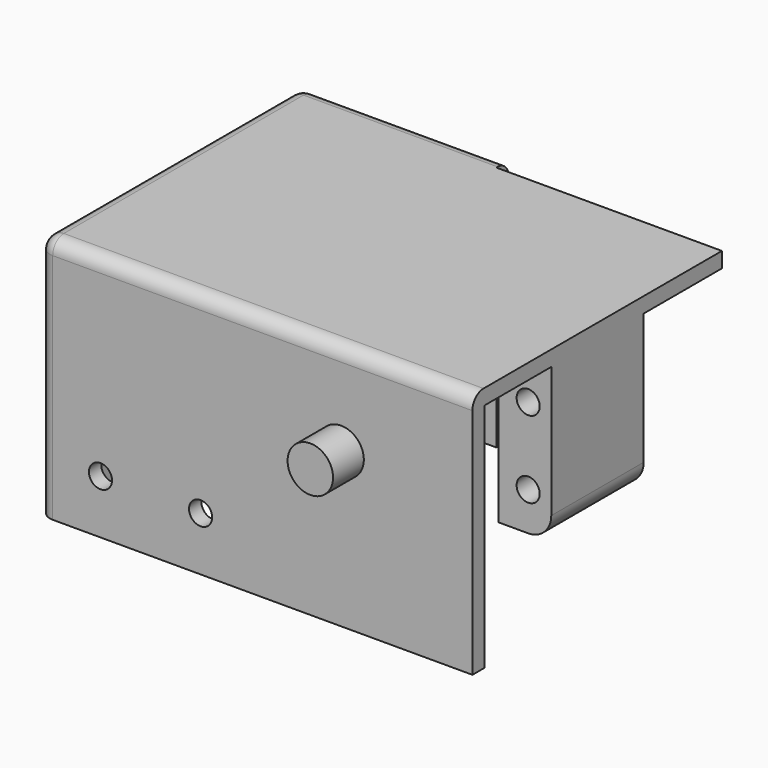
from build123d import *

# Parameters (mm, degrees)
SKETCH_W        = 54.3
SKETCH_H        = 38.5
PAD_DEPTH       = 2
SKETCH003_W     = 6.85
SKETCH003_H     = 15
PAD001_DEPTH    = 20
SKETCH001_W     = 54.3
SKETCH001_H     = 2
PAD003_DEPTH    = 32
SKETCH005_W     = 6.85
SKETCH005_H     = 15
PAD004_DEPTH    = 20
SKETCH002_R     = 2.95
PAD005_DEPTH    = 5
SKETCH007_W     = 25
SKETCH007_H     = 32
PAD006_DEPTH    = 2
SKETCH006_R     = 1.5
POCKET_DEPTH    = 15
SKETCH004_R     = 1.5
POCKET001_DEPTH = 20
SKETCH009_R     = 1.5
SKETCH009_R_2   = 2.95
POCKET002_DEPTH = 2
SKETCH008_R     = 1.5
POCKET003_DEPTH = 3
SKETCH010_W     = 42.5
SKETCH010_H     = 32
PAD007_DEPTH    = 2
FILLET_R        = 1.8
FILLET001_R     = 1.8
FILLET002_R     = 1.8
FILLET003_R     = 3


with BuildPart() as body:
    # Sketch → Pad (new body)
    with BuildSketch(Plane.XY):
        with Locations((27.15, 21.25)):
            Rectangle(SKETCH_W, SKETCH_H)
    extrude(amount=PAD_DEPTH)

    # Sketch003 → Pad001 (join)
    with BuildSketch(Plane.XY.offset(2)):
        with Locations((3.425, 20.3)):
            Rectangle(SKETCH003_W, SKETCH003_H)
    extrude(amount=PAD001_DEPTH)

    # Sketch001 → Pad003 (join)
    with BuildSketch(Plane.XY):
        with Locations((27.15, 1)):
            Rectangle(SKETCH001_W, SKETCH001_H)
    extrude(amount=PAD003_DEPTH)

    # Sketch005 (on Face5 of Pad003) → Pad004 (join)
    with BuildSketch(Plane.XY.offset(2)):
        with Locations((50.875, 20.3)):
            Rectangle(SKETCH005_W, SKETCH005_H)
    extrude(amount=PAD004_DEPTH)

    # Sketch002 (on Face18 of Pad004) → Pad005 (join)
    with BuildSketch(Plane.XZ):
        with Locations((37.25, 12)):
            Circle(SKETCH002_R)
    extrude(amount=PAD005_DEPTH)

    # Sketch007 (on Face1 of Pad005) → Pad006 (join)
    with BuildSketch(Plane(origin=(0, 40.5, 0), x_dir=(-1, 0, 0), z_dir=(0, 1, 0))):
        with Locations((-12.5, 16)):
            Rectangle(SKETCH007_W, SKETCH007_H)
    extrude(amount=PAD006_DEPTH)

    # Sketch006 (on Face14 of Pad006) → Pocket (cut)
    with BuildSketch(Plane.XZ.offset(-12.8)):
        with Locations((51.3, 17)):
            Circle(SKETCH006_R)
        with Locations((51.3, 7)):
            Circle(SKETCH006_R)
    extrude(amount=-POCKET_DEPTH, mode=Mode.SUBTRACT)

    # Sketch004 (on Face16 of Pocket) → Pocket001 (cut)
    with BuildSketch(Plane.XZ.offset(-12.8)):
        with Locations((3, 17)):
            Circle(SKETCH004_R)
        with Locations((3, 7)):
            Circle(SKETCH004_R)
    extrude(amount=-POCKET001_DEPTH, mode=Mode.SUBTRACT)

    # Sketch009 (on Face20 of Pocket001) → Pocket002 (cut)
    with BuildSketch(Plane(origin=(0, 42.5, 0), x_dir=(-1, 0, 0), z_dir=(0, 1, 0))):
        with Locations((-6, 25)):
            Circle(SKETCH009_R)
        with Locations((-19, 25)):
            Circle(SKETCH009_R)
        with Locations((-3, 7)):
            Circle(SKETCH009_R_2)
        with Locations((-3, 17)):
            Circle(SKETCH009_R_2)
    extrude(amount=-POCKET002_DEPTH, mode=Mode.SUBTRACT)

    # Sketch008 → Pocket003 (cut)
    with BuildSketch(Plane.XZ):
        with Locations((19, 25)):
            Circle(SKETCH008_R)
        with Locations((6, 25)):
            Circle(SKETCH008_R)
    extrude(amount=-POCKET003_DEPTH, mode=Mode.SUBTRACT)

    # Sketch010 (on Face8 of Pocket003) → Pad007 (join)
    with BuildSketch(Plane(origin=(0, 0, 0), x_dir=(0, -1, 0), z_dir=(-1, 0, 0))):
        with Locations((-21.25, 16)):
            Rectangle(SKETCH010_W, SKETCH010_H)
    extrude(amount=PAD007_DEPTH)

    # Fillet
    fillet_edges = [body.edges().sort_by_distance(p)[0] for p in [
        (-2, 42.5, 16),
    ]]
    fillet(fillet_edges, radius=FILLET_R)

    # Fillet001
    fillet001_edges = [body.edges().sort_by_distance(p)[0] for p in [
        (-2, 0, 16),
    ]]
    fillet(fillet001_edges, radius=FILLET001_R)

    # Fillet002
    fillet002_edges = [body.edges().sort_by_distance(p)[0] for p in [
        (-2, 21.25, 0),
    ]]
    fillet(fillet002_edges, radius=FILLET002_R)

    # Fillet003
    fillet003_edges = [body.edges().sort_by_distance(p)[0] for p in [
        (54.3, 20.3, 22),
    ]]
    fillet(fillet003_edges, radius=FILLET003_R)


with BuildPart() as part_mirroring:
    # Part__Mirroring: instance of Body
    add(body.part.mirror(Plane(origin=(0, 0, 0), x_dir=(0, 1, 0), z_dir=(0, 0, 1))))


solid = part_mirroring.part
